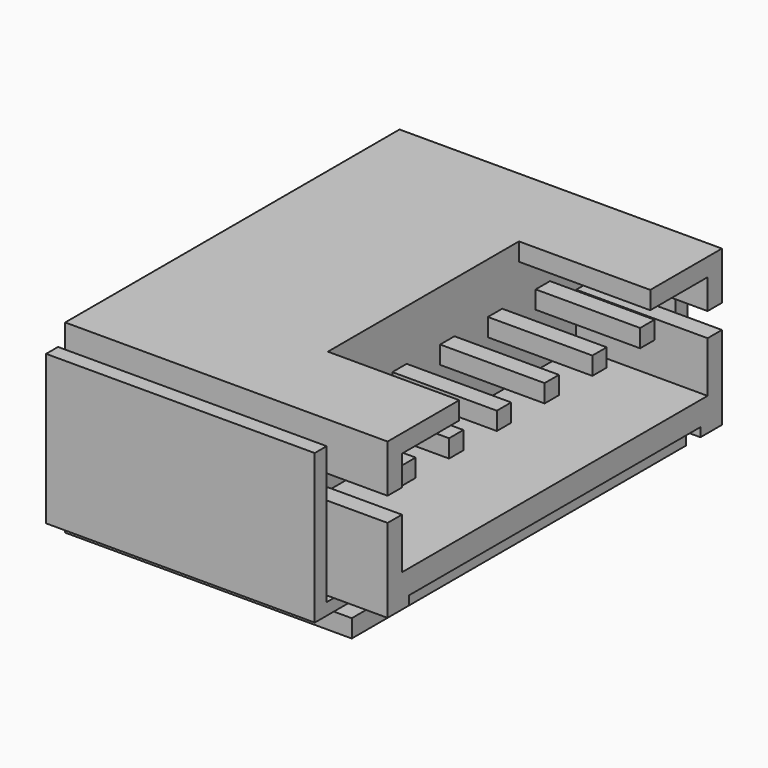
from build123d import *

# Parameters (mm, degrees)
SKETCH006_W  = 14
SKETCH006_H  = 0.6
PAD018_DEPTH = 9.6
PAD019_DEPTH = 9
PAD020_DEPTH = 6.4
PAD021_DEPTH = 4.4
SKETCH010_W  = 0.6
SKETCH010_H  = 0.6
PAD022_DEPTH = 3.5


with BuildPart() as part:
    # Sketch006 → Pad018 (new body)
    with BuildSketch(Plane.YZ.offset(16)):
        with Locations((0, 3.5)):
            Rectangle(SKETCH006_W, SKETCH006_H)
    extrude(amount=PAD018_DEPTH)

    # Sketch036 → Pad019 (join)
    with BuildSketch(Plane.YZ.offset(16)):
        Polygon((7.8, 8.8), (7.8, 3.8), (0.5, 3.8), (0, 3.4), (-0.5, 3.8), (-7.8, 3.8), (-7.8, 8.8), (-7.3, 8.8), (-7.3, 4.2), (7.3, 4.2), (7.3, 8.8), align=None)
    extrude(amount=PAD019_DEPTH)

    # Sketch037 → Pad020 (join)
    with BuildSketch(Plane.YZ.offset(16)):
        Polygon((-7, 9.4), (7, 9.4), (7, 4.2), (6.1, 4.2), (6.1, 4.5), (-6.1, 4.5), (-6.1, 4.2), (-7, 4.2), align=None)
    extrude(amount=PAD020_DEPTH)

    # Sketch038 (on Face21 of Pad020) → Pad021 (join)
    with BuildSketch(Plane.YZ.offset(22.4)):
        Polygon((-7, 9.4), (-4, 9.4), (-4, 8.8), (-6.4, 8.8), (-6.4, 7.8), (-7, 7.8), align=None)
        Polygon((4, 9.4), (7, 9.4), (7, 7.8), (6.4, 7.8), (6.4, 8.8), (4, 8.8), align=None)
        Polygon((7, 7), (7, 4.2), (6.1, 4.2), (6.1, 4.5), (-6.1, 4.5), (-6.1, 4.2), (-7, 4.2), (-7, 7), (-6.4, 7), (-6.4, 5.3), (6.4, 5.3), (6.4, 7), align=None)
    extrude(amount=PAD021_DEPTH)

    # Sketch010 (on Face35 of Pad021) → Pad022 (join)
    with BuildSketch(Plane.YZ.offset(22.4)):
        with Locations((-5, 7.4)):
            Rectangle(SKETCH010_W, SKETCH010_H)
        with Locations((-3, 7.4)):
            Rectangle(SKETCH010_W, SKETCH010_H)
        with Locations((-1, 7.4)):
            Rectangle(SKETCH010_W, SKETCH010_H)
        with Locations((1, 7.4)):
            Rectangle(SKETCH010_W, SKETCH010_H)
        with Locations((3, 7.4)):
            Rectangle(SKETCH010_W, SKETCH010_H)
        with Locations((5, 7.4)):
            Rectangle(SKETCH010_W, SKETCH010_H)
    extrude(amount=PAD022_DEPTH)


solid = part.part
